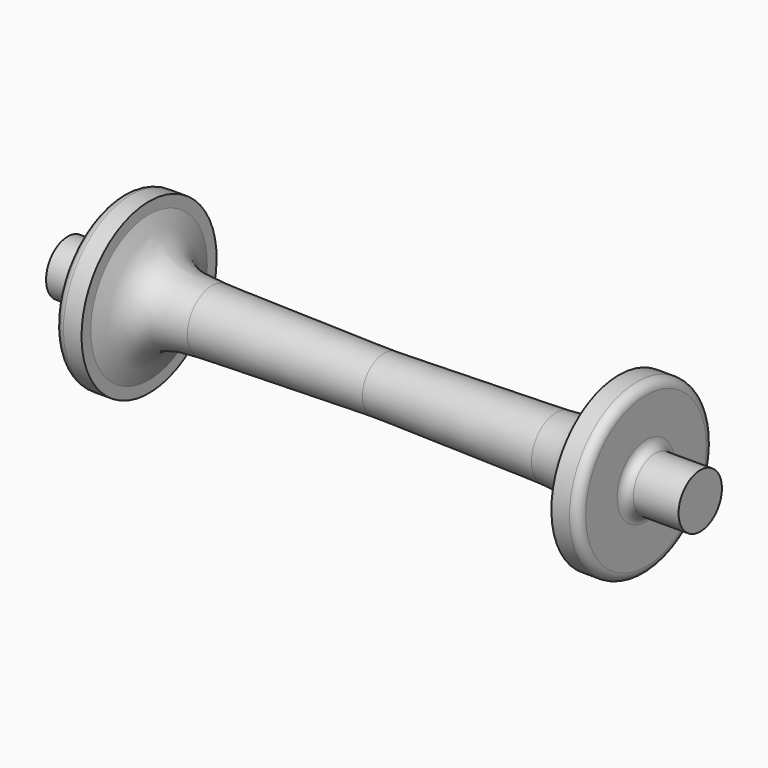
from build123d import *


with BuildPart() as f1:
    # F0 (on Front) → F1 (revolve)
    with BuildSketch(Plane.XZ):
        with BuildLine():
            Line((-24.9903301983, 21.7737406916), (-113.2452650991, 19.8959766657))
            Line((-113.2452650991, 19.8959766657), (-113.2452650991, 4.8959766657))
            Line((-113.2452650991, 4.8959766657), (61.7547349009, 4.8959766657))
            Line((61.7547349009, 4.8959766657), (61.7547349009, 19.8959766657))
            Line((61.7547349009, 19.8959766657), (36.7547349009, 19.8959766657))
            ThreePointArc((36.7547349009, 19.8959766657), (33.2192009949, 21.3604427598), (31.7547349009, 24.8959766657))
            Line((31.7547349009, 24.8959766657), (31.7547349009, 46.6154164807))
            ThreePointArc((31.7547349009, 46.6154164807), (30.2902688068, 50.1509503867), (26.7547349009, 51.6154164807))
            Line((26.7547349009, 51.6154164807), (16.7547349009, 51.6154164807))
            Line((16.7547349009, 51.6154164807), (16.7547349009, 45.2127791941))
            add(Edge.make_bspline(
                [(16.7547349009, 45.2127791941), (14.6425744881, 38.1953757962), (10.3697433231, 23.9993991291), (-8.0631348251, 22.2263150664), (-18.0584447884, 21.9212275723)],
                knots=[0, 0, 0, 0, 0.4430583211, 0.8962924364, 0.8962924364, 0.8962924364, 0.8962924364], degree=3))
            add(Edge.make_bspline(
                [(-18.0584447884, 21.9212275723), (-20.3455392693, 21.8514184391), (-22.6679347338, 21.8125795654), (-24.9903301983, 21.7737406916)],
                knots=[0.8962924364, 0.8962924364, 0.8962924364, 0.8962924364, 1, 1, 1, 1], degree=3))
        make_face()
        with BuildLine():
            Line((-18.0584447884, 21.9212275723), (-24.9903301983, 21.7737406916))
            add(Edge.make_bspline(
                [(-18.0584447884, 21.9212275723), (-20.3455392693, 21.8514184391), (-22.6679347338, 21.8125795654), (-24.9903301983, 21.7737406916)],
                knots=[0.8962924364, 0.8962924364, 0.8962924364, 0.8962924364, 1, 1, 1, 1], degree=3))
        make_face()
    revolve(axis=Axis((-25.7452650991, 0, 4.8959766657), (1, 0, 0)))

    # F2: F1 across face


with BuildPart() as f1_1:
    add(f1.part)
    add(f1.part.mirror(Plane(origin=(-113.2452650991, 0, 4.8959766657), x_dir=(0, -1, 0), z_dir=(-1, 0, 0))))


solid = f1_1.part
